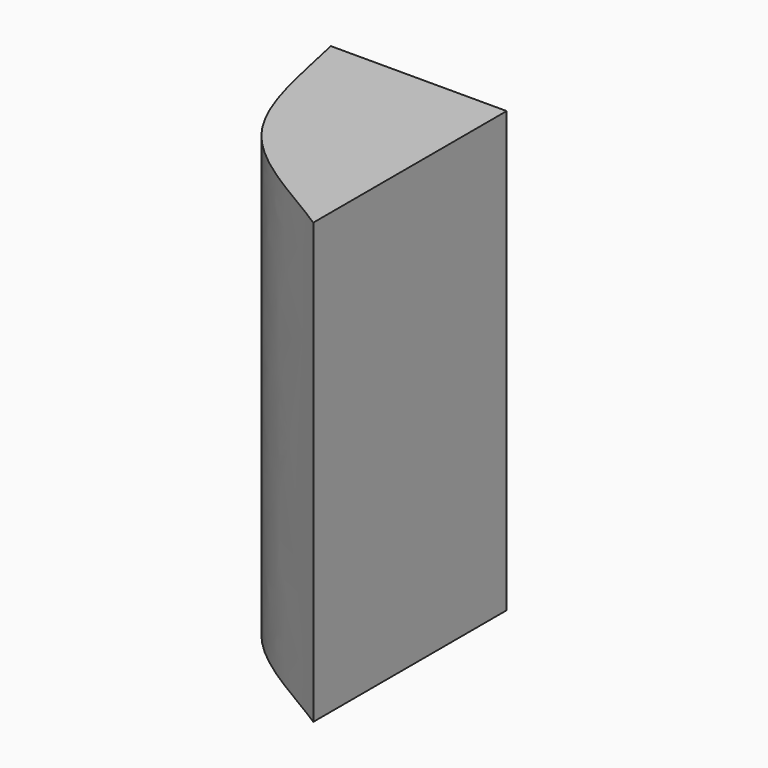
from build123d import *

# Parameters (mm, degrees)
F1_DEPTH = 20
F2_DEPTH = 20


with BuildPart() as f1:
    # F0 (on Top) → F1 (new body)
    with BuildSketch(Plane.XY):
        Polygon((-13.2870445102, 7.5084134005), (-21.2870445102, 7.5084134005), (-13.2870445102, -3.4915865995), align=None)
        with BuildLine():
            Line((-13.2870445102, -3.4915865995), (-21.2870445102, 7.5084134005))
            add(Edge.make_bspline(
                [(-21.2870445102, 7.5084134005), (-20.7287535092, 5.084426817), (-20.0664051279, -0.0080383017), (-15.13067403, -2.2765289137), (-13.2870445102, -3.4915865995)],
                knots=[0, 0, 0, 0, 0.5025837054, 1, 1, 1, 1], degree=3))
        make_face()
    extrude(amount=F1_DEPTH)

    # F0 (on Top) → F2 (join)
    with BuildSketch(Plane.XY):
        Polygon((-13.2870445102, 7.5084134005), (-21.2870445102, 7.5084134005), (-13.2870445102, -3.4915865995), align=None)
        with BuildLine():
            Line((-13.2870445102, -3.4915865995), (-21.2870445102, 7.5084134005))
            add(Edge.make_bspline(
                [(-21.2870445102, 7.5084134005), (-20.7287535092, 5.084426817), (-20.0664051279, -0.0080383017), (-15.13067403, -2.2765289137), (-13.2870445102, -3.4915865995)],
                knots=[0, 0, 0, 0, 0.5025837054, 1, 1, 1, 1], degree=3))
        make_face()
    extrude(amount=F2_DEPTH)


solid = f1.part
